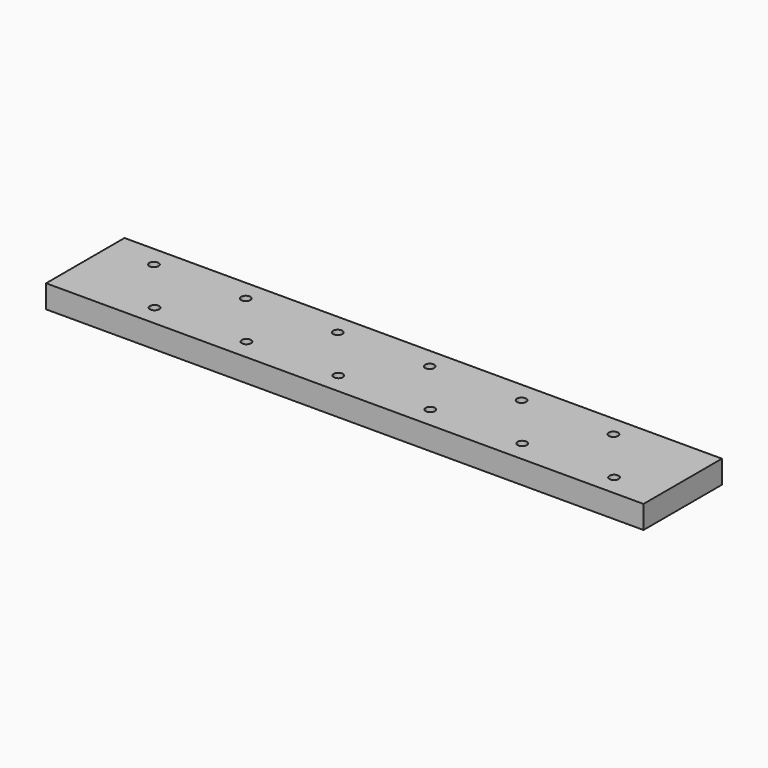
from build123d import *

# Parameters (mm, degrees)
F0_W     = 390
F0_H     = 64
F1_DEPTH = 15
F2_R     = 3
F3_DEPTH = 10


with BuildPart() as f1:
    # F0 (on Top) → F1 (new body)
    with BuildSketch(Plane.XY):
        with Locations((195, 32)):
            Rectangle(F0_W, F0_H)
    extrude(amount=F1_DEPTH)

    # F2 (on face) → F3 (cut)
    with BuildSketch(Plane.XY.offset(15)):
        with Locations((30, 50.5)):
            Circle(F2_R)
        with Locations((60, 13.5)):
            Circle(F2_R)
        with Locations((90, 50.5)):
            Circle(F2_R)
        with Locations((120, 13.5)):
            Circle(F2_R)
        with Locations((150, 50.5)):
            Circle(F2_R)
        with Locations((180, 13.5)):
            Circle(F2_R)
        with Locations((210, 50.5)):
            Circle(F2_R)
        with Locations((240, 13.5)):
            Circle(F2_R)
        with Locations((270, 50.5)):
            Circle(F2_R)
        with Locations((300, 13.5)):
            Circle(F2_R)
        with Locations((330, 50.5)):
            Circle(F2_R)
        with Locations((360, 13.5)):
            Circle(F2_R)
    extrude(amount=-F3_DEPTH, mode=Mode.SUBTRACT)


solid = f1.part
